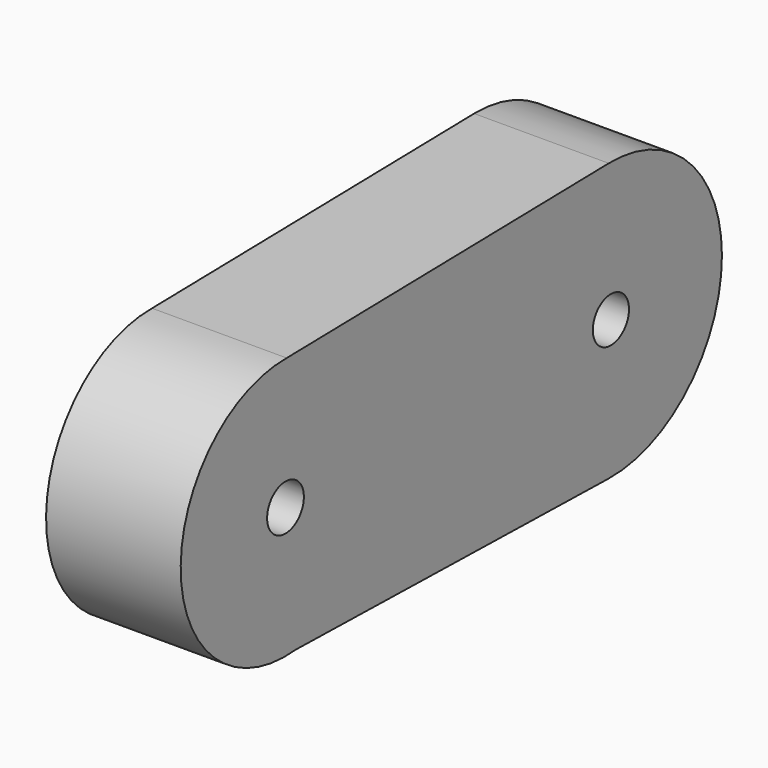
from build123d import *

# Parameters (mm, degrees)
F0_R     = 8.666639
F0_R_2   = 8.533259
F1_DEPTH = 50.8


with BuildPart() as f1:
    # F0 (on Right) → F1 (new body)
    with BuildSketch(Plane.YZ):
        with BuildLine():
            ThreePointArc((-76.663191, -49.186322), (-44.88732, -33.190983), (-32.084371, 0))
            ThreePointArc((-32.084371, 0), (-46.358205, 34.744925), (-80.935105, 49.4211))
            ThreePointArc((-80.935105, 49.4211), (-130.886914, -2.139181), (-76.663191, -49.186322))
        make_face()
        with Locations((-81.5088, 0)):
            Circle(F0_R, mode=Mode.SUBTRACT)
        with BuildLine():
            ThreePointArc((-80.935105, 49.4211), (-46.358205, 34.744925), (-32.084371, 0))
            ThreePointArc((-32.084371, 0), (-44.88732, -33.190983), (-76.663191, -49.186322))
            Line((-76.663191, -49.186322), (70.84504, -52.352026))
            ThreePointArc((70.84504, -52.352026), (19.604527, 0.05627), (70.957556, 52.35432))
            Line((70.957556, 52.35432), (-80.935105, 49.4211))
        make_face()
        with BuildLine():
            ThreePointArc((124.332659, 0), (108.636382, 37.382738), (70.957556, 52.35432))
            ThreePointArc((70.957556, 52.35432), (19.604527, 0.05627), (70.84504, -52.352026))
            ThreePointArc((70.84504, -52.352026), (108.59619, -37.422119), (124.332659, 0))
        make_face()
        with Locations((71.968578, 0)):
            Circle(F0_R_2, mode=Mode.SUBTRACT)
    extrude(amount=F1_DEPTH)


solid = f1.part
